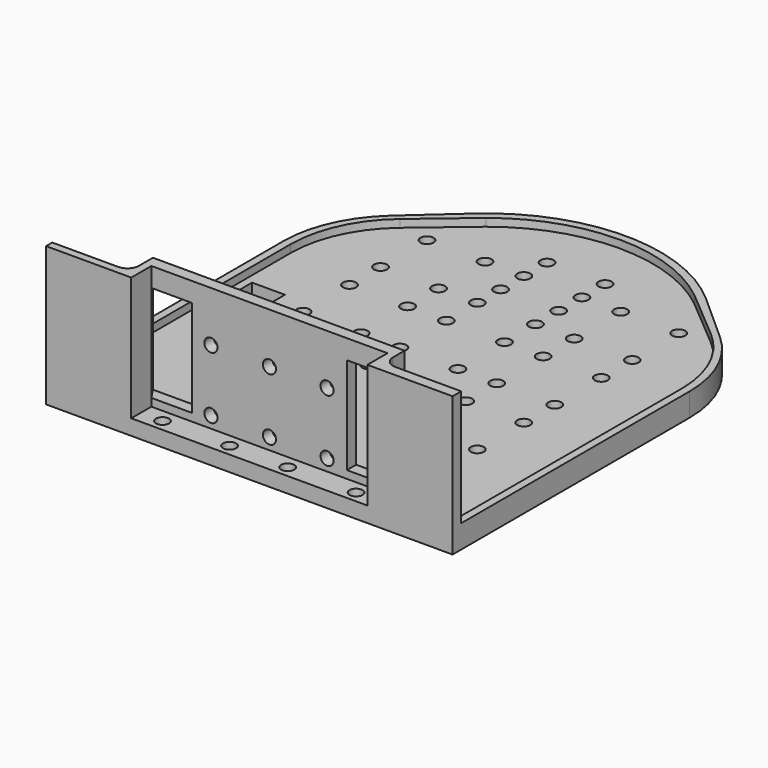
from build123d import *

# Parameters (mm, degrees)
SKETCH023_R     = 1.7
PAD004_DEPTH    = 4
PAD005_DEPTH    = 2
SKETCH025_W     = 40
SKETCH025_H     = 3
PAD006_DEPTH    = 25
PAD007_DEPTH    = 5
SKETCH027_R     = 1.7
POCKET018_DEPTH = 10
SKETCH033_W     = 8.5
SKETCH033_H     = 16.5
POCKET021_DEPTH = 5


with BuildPart() as part:
    # Sketch023 → Pad004 (new body)
    with BuildSketch(Plane.XY):
        with BuildLine():
            Line((-52.5, 0), (-30.5, 0))
            Line((-30.5, 0), (30.5, 0))
            Line((30.5, 0), (52.5, 0))
            Line((52.5, 0), (52.5, 76.5))
            ThreePointArc((52.5, 76.5), (49.886128, 88.747449), (42.5, 98.86068))
            Line((42.5, 98.86068), (30, 110.04102))
            ThreePointArc((30, 110.04102), (0, 121.5), (-30, 110.04102))
            Line((-30, 110.04102), (-42.5, 98.86068))
            ThreePointArc((-42.5, 98.86068), (-49.886128, 88.747449), (-52.5, 76.5))
            Line((-52.5, 76.5), (-52.5, 0))
        make_face()
        with Locations((17.511522, 32.982072)):
            Circle(SKETCH023_R, mode=Mode.SUBTRACT)
        with Locations((17.511522, 47.982072)):
            Circle(SKETCH023_R, mode=Mode.SUBTRACT)
        with Locations((32.511522, 47.982072)):
            Circle(SKETCH023_R, mode=Mode.SUBTRACT)
        with Locations((32.511522, 32.982072)):
            Circle(SKETCH023_R, mode=Mode.SUBTRACT)
        with Locations((-7.5, 32.982072)):
            Circle(SKETCH023_R, mode=Mode.SUBTRACT)
        with Locations((-7.5, 47.982072)):
            Circle(SKETCH023_R, mode=Mode.SUBTRACT)
        with Locations((7.5, 47.982072)):
            Circle(SKETCH023_R, mode=Mode.SUBTRACT)
        with Locations((7.5, 32.982072)):
            Circle(SKETCH023_R, mode=Mode.SUBTRACT)
        with Locations((-32.511522, 32.982072)):
            Circle(SKETCH023_R, mode=Mode.SUBTRACT)
        with Locations((-32.511522, 47.982072)):
            Circle(SKETCH023_R, mode=Mode.SUBTRACT)
        with Locations((-17.511522, 47.982072)):
            Circle(SKETCH023_R, mode=Mode.SUBTRACT)
        with Locations((-17.511522, 32.982072)):
            Circle(SKETCH023_R, mode=Mode.SUBTRACT)
        with Locations((17.511522, 57.993594)):
            Circle(SKETCH023_R, mode=Mode.SUBTRACT)
        with Locations((17.511522, 72.993594)):
            Circle(SKETCH023_R, mode=Mode.SUBTRACT)
        with Locations((32.511522, 72.993594)):
            Circle(SKETCH023_R, mode=Mode.SUBTRACT)
        with Locations((32.511522, 57.993594)):
            Circle(SKETCH023_R, mode=Mode.SUBTRACT)
        with Locations((-7.5, 57.993594)):
            Circle(SKETCH023_R, mode=Mode.SUBTRACT)
        with Locations((-7.5, 72.993594)):
            Circle(SKETCH023_R, mode=Mode.SUBTRACT)
        with Locations((7.5, 72.993594)):
            Circle(SKETCH023_R, mode=Mode.SUBTRACT)
        with Locations((7.5, 57.993594)):
            Circle(SKETCH023_R, mode=Mode.SUBTRACT)
        with Locations((-32.511522, 57.993594)):
            Circle(SKETCH023_R, mode=Mode.SUBTRACT)
        with Locations((-32.511522, 72.993594)):
            Circle(SKETCH023_R, mode=Mode.SUBTRACT)
        with Locations((-17.511522, 72.993594)):
            Circle(SKETCH023_R, mode=Mode.SUBTRACT)
        with Locations((-17.511522, 57.993594)):
            Circle(SKETCH023_R, mode=Mode.SUBTRACT)
        with Locations((17.511522, 83.005116)):
            Circle(SKETCH023_R, mode=Mode.SUBTRACT)
        with Locations((17.511522, 98.005116)):
            Circle(SKETCH023_R, mode=Mode.SUBTRACT)
        with Locations((32.511522, 98.005116)):
            Circle(SKETCH023_R, mode=Mode.SUBTRACT)
        with Locations((32.511522, 83.005116)):
            Circle(SKETCH023_R, mode=Mode.SUBTRACT)
        with Locations((-7.5, 83.005116)):
            Circle(SKETCH023_R, mode=Mode.SUBTRACT)
        with Locations((-7.5, 98.005116)):
            Circle(SKETCH023_R, mode=Mode.SUBTRACT)
        with Locations((7.5, 98.005116)):
            Circle(SKETCH023_R, mode=Mode.SUBTRACT)
        with Locations((7.5, 83.005116)):
            Circle(SKETCH023_R, mode=Mode.SUBTRACT)
        with Locations((-32.511522, 83.005116)):
            Circle(SKETCH023_R, mode=Mode.SUBTRACT)
        with Locations((-32.511522, 98.005116)):
            Circle(SKETCH023_R, mode=Mode.SUBTRACT)
        with Locations((-17.511522, 98.005116)):
            Circle(SKETCH023_R, mode=Mode.SUBTRACT)
        with Locations((-17.511522, 83.005116)):
            Circle(SKETCH023_R, mode=Mode.SUBTRACT)
        with Locations((-7.5, 90.505116)):
            Circle(SKETCH023_R, mode=Mode.SUBTRACT)
        with Locations((-7.5, 105.505116)):
            Circle(SKETCH023_R, mode=Mode.SUBTRACT)
        with Locations((7.5, 105.505116)):
            Circle(SKETCH023_R, mode=Mode.SUBTRACT)
        with Locations((7.5, 90.505116)):
            Circle(SKETCH023_R, mode=Mode.SUBTRACT)
        with Locations((-24.827374, 3)):
            Circle(SKETCH023_R, mode=Mode.SUBTRACT)
        with Locations((-7.5, 3)):
            Circle(SKETCH023_R, mode=Mode.SUBTRACT)
        with Locations((7.5, 3)):
            Circle(SKETCH023_R, mode=Mode.SUBTRACT)
        with Locations((25.172626, 3)):
            Circle(SKETCH023_R, mode=Mode.SUBTRACT)
    extrude(amount=PAD004_DEPTH)

    # Sketch024 (on Face56 of Pad004) → Pad005 (join)
    with BuildSketch(Plane.XY.offset(4)):
        with BuildLine():
            Line((-52.5, 0), (-30.5, 0))
            Line((-30.5, 0), (-30.5, 6.5))
            Line((-30.5, 6.5), (30.5, 6.5))
            Line((30.5, 6.5), (30.5, 0))
            Line((30.5, 0), (52.5, 0))
            Line((52.5, 0), (52.5, 76.5))
            ThreePointArc((52.5, 76.5), (49.886128, 88.747449), (42.5, 98.86068))
            Line((42.5, 98.86068), (30, 110.04102))
            ThreePointArc((30, 110.04102), (0, 121.5), (-30, 110.04102))
            Line((-30, 110.04102), (-42.5, 98.86068))
            ThreePointArc((-42.5, 98.86068), (-49.886128, 88.747449), (-52.5, 76.5))
            Line((-52.5, 76.5), (-52.5, 0))
        make_face()
        with BuildLine():
            Line((-50.5, 2), (-50.5, 76.5))
            ThreePointArc((-40.126205, 98.86068), (-47.780263, 88.82493), (-50.5, 76.5))
            Line((-40.126205, 98.86068), (-26.907285, 110.04102))
            ThreePointArc((26.907285, 110.04102), (0, 119.500023), (-26.907285, 110.04102))
            Line((26.907285, 110.04102), (40.126205, 98.86068))
            ThreePointArc((50.5, 76.5), (47.780263, 88.82493), (40.126205, 98.86068))
            Line((50.5, 76.5), (50.5, 2.779082))
            Line((50.5, 2.779082), (35.5, 2.779082))
            ThreePointArc((32.5, 5.779082), (33.37868, 3.657761), (35.5, 2.779082))
            Line((32.5, 5.779082), (32.5, 9.5))
            Line((32.5, 9.5), (-32.5, 9.5))
            Line((-32.5, 9.5), (-32.5, 5))
            ThreePointArc((-35.5, 2), (-33.37868, 2.87868), (-32.5, 5))
            Line((-35.5, 2), (-50.5, 2))
        make_face(mode=Mode.SUBTRACT)
    extrude(amount=PAD005_DEPTH)

    # Sketch025 (on Face60 of Pad005) → Pad006 (join)
    with BuildSketch(Plane.XY.offset(6)):
        with BuildLine():
            Line((-52.5, 0), (-30.5, 0))
            Line((-30.5, 0), (-30.5, 6.5))
            Line((-32.5, 9.5), (-30.5, 6.5))
            Line((-32.5, 9.5), (-32.5, 5))
            ThreePointArc((-35.5, 2), (-33.37868, 2.87868), (-32.5, 5))
            Line((-35.5, 2), (-50.5, 2))
            Line((-50.5, 2), (-52.5, 2))
            Line((-52.5, 2), (-52.5, 0))
        make_face()
        with Locations((0, 8)):
            Rectangle(SKETCH025_W, SKETCH025_H)
        with BuildLine():
            Line((30.5, 6.5), (30.5, 0))
            Line((30.5, 0), (52.5, 0))
            Line((52.5, 2.779082), (52.5, 0))
            Line((50.5, 2.779082), (52.5, 2.779082))
            Line((50.5, 2.779082), (35.5, 2.779082))
            ThreePointArc((32.5, 5.779082), (33.37868, 3.657761), (35.5, 2.779082))
            Line((32.5, 5.779082), (32.5, 9.5))
            Line((30.5, 6.5), (32.5, 9.5))
        make_face()
    extrude(amount=PAD006_DEPTH)

    # Sketch026 (on Face102 of Pad006) → Pad007 (join)
    with BuildSketch(Plane.XY.offset(31)):
        with BuildLine():
            Line((-52.5, 0), (-30.5, 0))
            Line((-30.5, 0), (-30.5, 6.5))
            Line((-30.5, 6.5), (30.5, 6.5))
            Line((30.5, 6.5), (30.5, 0))
            Line((30.5, 0), (52.5, 0))
            Line((52.5, 2.779082), (52.5, 0))
            Line((50.5, 2.779082), (52.5, 2.779082))
            Line((50.5, 2.779082), (35.5, 2.779082))
            ThreePointArc((32.5, 5.779082), (33.37868, 3.657761), (35.5, 2.779082))
            Line((32.5, 5.779082), (32.5, 9.5))
            Line((32.5, 9.5), (-32.5, 9.5))
            Line((-32.5, 9.5), (-32.5, 5))
            ThreePointArc((-35.5, 2), (-33.37868, 2.87868), (-32.5, 5))
            Line((-35.5, 2), (-50.5, 2))
            Line((-52.5, 2), (-50.5, 2))
            Line((-52.5, 0), (-52.5, 2))
        make_face()
    extrude(amount=PAD007_DEPTH)

    # Sketch027 (on Face114 of Pad007) → Pocket018 (cut)
    with BuildSketch(Plane(origin=(0, 9.5, 0), x_dir=(-1, 0, 0), z_dir=(0, 1, 0))):
        with Locations((-14.881968, 23)):
            Circle(SKETCH027_R)
        with Locations((0, 23)):
            Circle(SKETCH027_R)
        with Locations((15.118032, 23)):
            Circle(SKETCH027_R)
        with Locations((15.118032, 7)):
            Circle(SKETCH027_R)
        with Locations((0, 7)):
            Circle(SKETCH027_R)
        with Locations((-14.881968, 7)):
            Circle(SKETCH027_R)
    extrude(amount=-POCKET018_DEPTH, mode=Mode.SUBTRACT)

    # Sketch033 (on Face72 of Pocket018) → Pocket021 (cut)
    with BuildSketch(Plane.XY.offset(4)):
        with Locations((-44.25, 53.25)):
            Rectangle(SKETCH033_W, SKETCH033_H)
    extrude(amount=-POCKET021_DEPTH, mode=Mode.SUBTRACT)


solid = part.part
